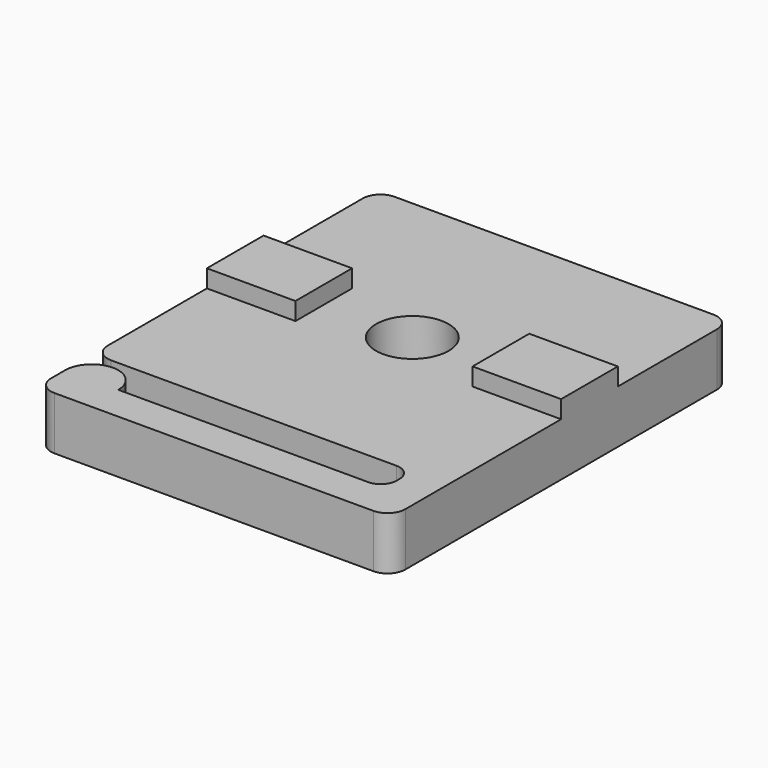
from build123d import *

# Parameters (mm, degrees)
CYLINDER001_R     = 2.05
CYLINDER001_DEPTH = 10
BOX002_W          = 2
BOX002_H          = 4
BOX002_DEPTH      = 3
BOX001_W          = 20
BOX001_H          = 2
BOX001_DEPTH      = 3
CYLINDER_R        = 1.5
CYLINDER_DEPTH    = 3
BOX003_W          = 5
BOX003_H          = 4
BOX003_DEPTH      = 4
BOX004_W          = 5
BOX004_H          = 4
BOX004_DEPTH      = 4
BOX_W             = 20
BOX_H             = 20
BOX_DEPTH         = 3
FILLET_R          = 1
FILLET001_R       = 0.9


with BuildPart() as cylinder001:
    # Cylinder001 → Cylinder001 (new body)
    with BuildSketch(Plane.XY):
        Circle(CYLINDER001_R)
    extrude(amount=CYLINDER001_DEPTH)


with BuildPart() as cube002:
    # Box002 → Box002 (new body)
    with BuildSketch(Plane(origin=(8, -14, 0), x_dir=(1, 0, 0), z_dir=(0, 0, 1))):
        with Locations((1, 2)):
            Rectangle(BOX002_W, BOX002_H)
    extrude(amount=BOX002_DEPTH)


with BuildPart() as cube001:
    # Box001 → Box001 (new body)
    with BuildSketch(Plane(origin=(-10, -14, 0), x_dir=(1, 0, 0), z_dir=(0, 0, 1))):
        with Locations((10, 1)):
            Rectangle(BOX001_W, BOX001_H)
    extrude(amount=BOX001_DEPTH)


with BuildPart() as cylinder:
    # Cylinder → Cylinder (new body)
    with BuildSketch(Plane(origin=(-8.5, -12, 0), x_dir=(1, 0, 0), z_dir=(0, 0, 1))):
        Circle(CYLINDER_R)
    extrude(amount=CYLINDER_DEPTH)


with BuildPart() as cube003:
    # Box003 → Box003 (new body)
    with BuildSketch(Plane(origin=(5, -2, 0), x_dir=(1, 0, 0), z_dir=(0, 0, 1))):
        with Locations((2.5, 2)):
            Rectangle(BOX003_W, BOX003_H)
    extrude(amount=BOX003_DEPTH)


with BuildPart() as cube004:
    # Box004 → Box004 (new body)
    with BuildSketch(Plane(origin=(-10, -2, 0), x_dir=(1, 0, 0), z_dir=(0, 0, 1))):
        with Locations((2.5, 2)):
            Rectangle(BOX004_W, BOX004_H)
    extrude(amount=BOX004_DEPTH)


with BuildPart() as screen_cable:
    # Box → Box (new body)
    with BuildSketch(Plane(origin=(-10, -10, 0), x_dir=(1, 0, 0), z_dir=(0, 0, 1))):
        with Locations((10, 10)):
            Rectangle(BOX_W, BOX_H)
    extrude(amount=BOX_DEPTH)

    # Fusion: union Cube002, Cube001, Cylinder, Cube003, Cube004
    add(cube002.part)
    add(cube001.part)
    add(cylinder.part)
    add(cube003.part)
    add(cube004.part)

    # Cut: cut Cylinder001
    add(cylinder001.part, mode=Mode.SUBTRACT)

    # Fillet
    fillet_edges = [screen_cable.edges().sort_by_distance(p)[0] for p in [
        (-10, -10, 1.5),
        (-10, 10, 1.5),
        (10, 10, 1.5),
        (10, -14, 1.5),
        (-10, -14, 1.5),
    ]]
    fillet(fillet_edges, radius=FILLET_R)

    # Fillet001
    fillet001_edges = [screen_cable.edges().sort_by_distance(p)[0] for p in [
        (8, -10, 1.5),
        (8, -12, 1.5),
    ]]
    fillet(fillet001_edges, radius=FILLET001_R)


with BuildPart() as screen_cable_1:
    # Fillet001 placement: moved
    add(screen_cable.part.moved(Location((-25, 0, 0))))


solid = screen_cable_1.part
